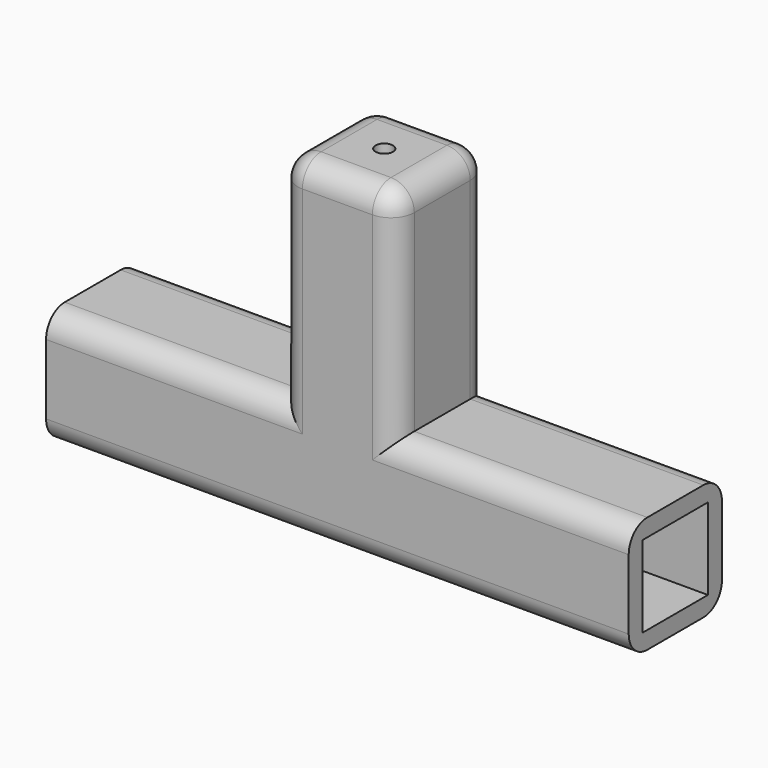
from build123d import *

# Parameters (mm, degrees)
F0_W     = 25.4
F0_H     = 47.049225
F1_DEPTH = 12.7
F2_W     = 17.78
F2_H     = 17.78
F3_DEPTH = 240.03
F4_R     = 1.893959
F5_DEPTH = 63.5
F6_R     = 5.08


with BuildPart() as f1:
    # F0 (on Front) → F1 (new body, symmetric)
    with BuildSketch(Plane.XZ):
        with Locations((2.46951, 16.322443)):
            Rectangle(F0_W, F0_H)
        Polygon((-61.03049, -7.202169), (-61.03049, -32.602169), (65.96951, -32.602169), (65.96951, -7.202169), (15.16951, -7.202169), (-10.23049, -7.202169), align=None)
    extrude(amount=F1_DEPTH, both=True)

    # F2 (on face) → F3 (cut, symmetric)
    with BuildSketch(Plane.YZ.offset(65.96951)):
        with Locations((0, -19.902169)):
            Rectangle(F2_W, F2_H)
    extrude(amount=F3_DEPTH, both=True, mode=Mode.SUBTRACT)

    # F4 (on face) → F5 (cut, symmetric)
    with BuildSketch(Plane.XY.offset(39.847056)):
        with Locations((2.532323, 0)):
            Circle(F4_R)
    extrude(amount=-F5_DEPTH, both=True, mode=Mode.SUBTRACT)

    # F6
    f6_edges = [f1.edges().sort_by_distance(p)[0] for p in [
        (40.56951, -12.7, -7.202169),
        (40.56951, 12.7, -7.202169),
        (-35.63049, -12.7, -7.202169),
        (-35.63049, 12.7, -7.202169),
        (2.46951, -12.7, -32.602169),
        (2.46951, 12.7, -32.602169),
        (15.16951, -12.7, 16.322444),
        (-10.23049, -12.7, 16.322444),
        (-10.23049, 12.7, 16.322444),
        (15.16951, 12.7, 16.322444),
        (2.46951, 12.7, 39.847056),
        (15.16951, 0, 39.847056),
        (2.46951, -12.7, 39.847056),
        (-10.23049, 0, 39.847056),
    ]]
    fillet(f6_edges, radius=F6_R)


solid = f1.part
